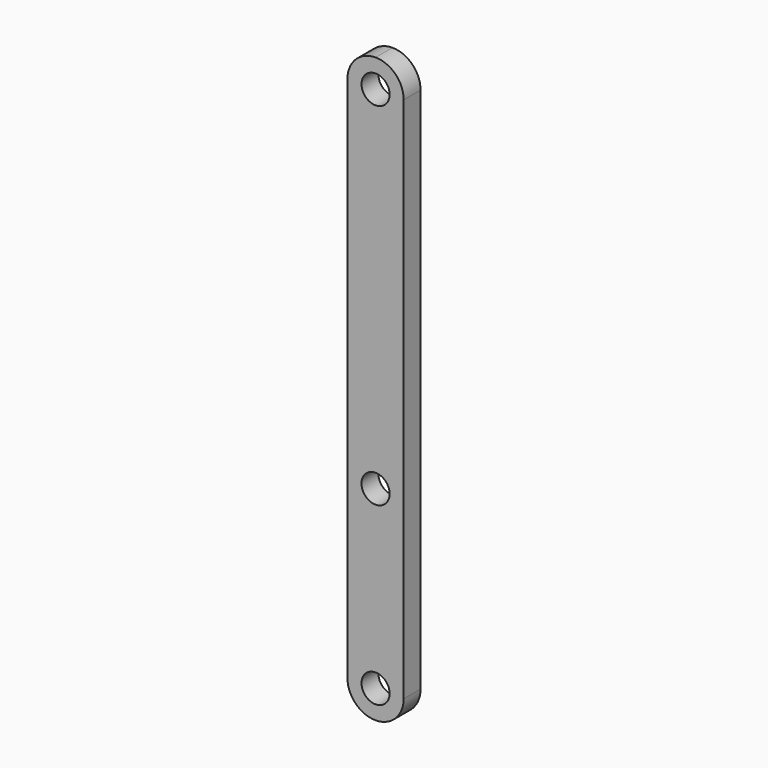
from build123d import *

# Parameters (mm, degrees)
F0_R     = 50.8
F1_DEPTH = 76.2


with BuildPart() as f1:
    # F0 (on Front) → F1 (new body)
    with BuildSketch(Plane.XZ):
        with BuildLine():
            Line((0, 2006.6), (0, 101.6))
            ThreePointArc((0, 101.6), (29.757951, 29.757951), (101.6, 0))
            ThreePointArc((101.6, 0), (173.442049, 29.757951), (203.2, 101.6))
            Line((203.2, 101.6), (203.2, 2006.6))
            ThreePointArc((203.2, 2006.6), (173.442049, 2078.442049), (101.6, 2108.2))
            ThreePointArc((101.6, 2108.2), (29.757951, 2078.442049), (0, 2006.6))
        make_face()
        with Locations((101.6, 101.6)):
            Circle(F0_R, mode=Mode.SUBTRACT)
        with Locations((101.6, 736.6)):
            Circle(F0_R, mode=Mode.SUBTRACT)
        with Locations((101.6, 2006.6)):
            Circle(F0_R, mode=Mode.SUBTRACT)
    extrude(amount=F1_DEPTH)


solid = f1.part
